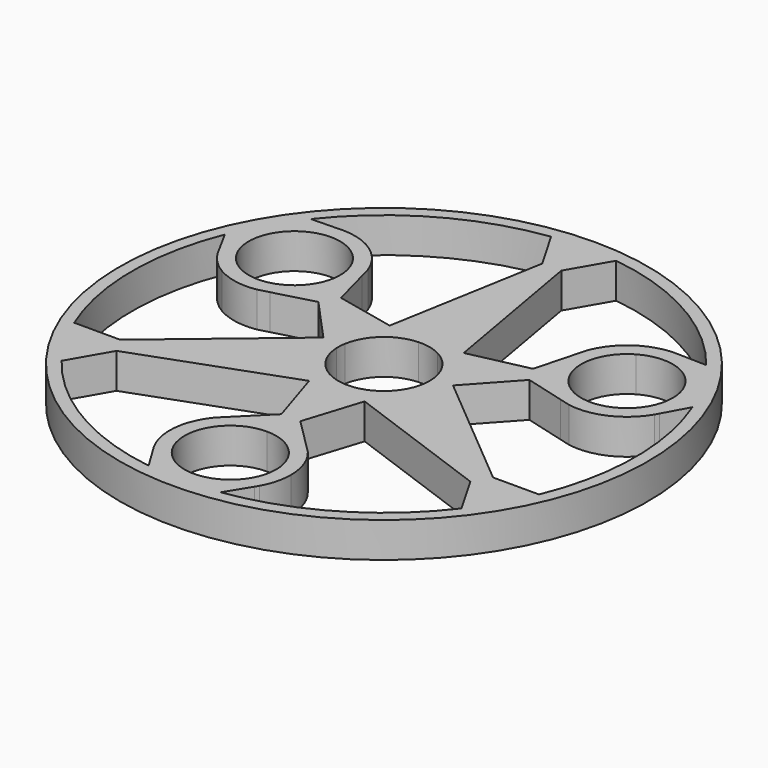
from build123d import *

# Parameters (mm, degrees)
F1_DEPTH = 5
F2_COUNT = 3
F3_DEPTH = 5


with BuildPart() as f1:
    # F0 (on Top) → F1 (new body)
    with BuildSketch(Plane.XY):
        with BuildLine():
            ThreePointArc((-5.4248477433, 6.6765403938), (0, 8.602625452), (5.4248477433, 6.6765403938))
            Line((5.4248477433, 6.6765403938), (1.3544146049, 29.8043473585))
            Line((1.3544146049, 29.8043473585), (-1.3544146049, 29.8043473585))
            Line((-1.3544146049, 29.8043473585), (-5.4248477433, 6.6765403938))
        make_face()
        with BuildLine():
            ThreePointArc((-6.4909440333, -0.3429949805), (-6.4880250922, 0.3943734303), (-6.4016109203, 1.1266665987))
            Line((-6.4016109203, 1.1266665987), (-6.5999012756, 0))
            Line((-6.5999012756, 0), (-6.4909440333, -0.3429949805))
        make_face()
        with BuildLine():
            ThreePointArc((-6.4016109203, 1.1266665987), (3.01e-08, 6.5), (6.4016109308, 1.1266665393))
            Line((6.4016109308, 1.1266665393), (5.4248477433, 6.6765403938))
            ThreePointArc((5.4248477433, 6.6765403938), (0, 8.602625452), (-5.4248477433, 6.6765403938))
            Line((-5.4248477433, 6.6765403938), (-6.4016109203, 1.1266665987))
        make_face()
        with BuildLine():
            ThreePointArc((5.4826146341, -20.6491084281), (3.2218551697, -19.3014479363), (0.6594098664, -18.7005351105))
            Line((0.6594098664, -18.7005351105), (0, -20.7763427347))
            Line((0, -20.7763427347), (-0.6594098664, -18.7005351105))
            ThreePointArc((-0.6594098664, -18.7005351105), (-3.2230425543, -19.3019277422), (-5.4845879123, -20.6507413875))
            Line((-5.4845879123, -20.6507413875), (-6.6083723171, -21.7710077677))
            ThreePointArc((-6.6083723171, -21.7710077677), (-8.5655271696, -26.4946509242), (-7.4957432876, -31.494533146))
            Line((-7.4957432876, -31.494533146), (-7.1801960351, -32.0117500748))
            ThreePointArc((-7.1801960351, -32.0117500748), (-4.7747668767, -34.4304254189), (-1.6183226323, -35.7238470784))
            ThreePointArc((-1.6183226323, -35.7238470784), (0, -35.7604840323), (1.6183226323, -35.7238470784))
            ThreePointArc((1.6183226323, -35.7238470784), (4.7779827917, -34.4282780127), (7.1844511071, -32.0052918853))
            Line((7.1844511071, -32.0052918853), (7.4957432876, -31.494533146))
            ThreePointArc((7.4957432876, -31.494533146), (8.3201892844, -29.4566518987), (8.6011218908, -27.2763427347))
            ThreePointArc((8.6011218908, -27.2763427347), (8.0881303689, -24.3503480465), (6.6103478907, -21.7733800287))
            Line((6.6103478907, -21.7733800287), (5.4826146341, -20.6491084281))
        make_face()
        with BuildLine():
            ThreePointArc((6.5, -27.2763427347), (-4.5961940777, -31.8725368124), (0, -20.7763427347))
            ThreePointArc((0, -20.7763427347), (4.5961940777, -22.680148657), (6.5, -27.2763427347))
        make_face(mode=Mode.SUBTRACT)
        with BuildLine():
            ThreePointArc((1.6183226323, -35.7238470784), (0, -35.7604840323), (-1.6183226323, -35.7238470784))
            ThreePointArc((-1.6183226323, -35.7238470784), (0, -35.8774646255), (1.6183226323, -35.7238470784))
        make_face()
        with BuildLine():
            Line((1.3493711691, -16.5285522429), (4.2182307974, -7.4974458056))
            ThreePointArc((4.2182307974, -7.4974458056), (0, -8.602625452), (-4.2182307974, -7.4974458056))
            Line((-4.2182307974, -7.4974458056), (-1.3493910102, -16.5284897836))
            Line((-1.3493910102, -16.5284897836), (0, -15.183323063))
            Line((0, -15.183323063), (1.3493711691, -16.5285522429))
        make_face()
        with BuildLine():
            Line((5.4248477433, 6.6765403938), (6.4016109308, 1.1266665393))
            Line((6.4016109308, 1.1266665393), (6.5999012756, 0))
            Line((6.5999012756, 0), (6.4909440333, -0.3429949805))
            ThreePointArc((6.4909440333, -0.3429949805), (6.1949432904, -1.9679119972), (5.498951298, -3.4657660946))
            Line((5.498951298, -3.4657660946), (4.2182307974, -7.4974458056))
            ThreePointArc((4.2182307974, -7.4974458056), (7.4260697643, -4.3426550086), (8.602625452, 0))
            ThreePointArc((8.602625452, 0), (7.7676604566, 3.6971091002), (5.4248477433, 6.6765403938))
        make_face()
        with BuildLine():
            Line((-6.5999012756, 0), (-6.4016109203, 1.1266665987))
            Line((-6.4016109203, 1.1266665987), (-5.4248477433, 6.6765403938))
            ThreePointArc((-5.4248477433, 6.6765403938), (-8.5716224911, -0.7296934543), (-4.2182307974, -7.4974458056))
            Line((-4.2182307974, -7.4974458056), (-5.498951298, -3.4657660946))
            ThreePointArc((-5.498951298, -3.4657660946), (-6.1949432904, -1.9679119972), (-6.4909440333, -0.3429949805))
            Line((-6.4909440333, -0.3429949805), (-6.5999012756, 0))
        make_face()
        with BuildLine():
            Line((0, -20.7763427347), (0.6594098664, -18.7005351105))
            ThreePointArc((0.6594098664, -18.7005351105), (0, -18.6752208439), (-0.6594098664, -18.7005351105))
            Line((-0.6594098664, -18.7005351105), (0, -20.7763427347))
        make_face()
        with BuildLine():
            Line((4.2182307974, -7.4974458056), (5.498951298, -3.4657660946))
            ThreePointArc((5.498951298, -3.4657660946), (0, -6.5), (-5.498951298, -3.4657660946))
            Line((-5.498951298, -3.4657660946), (-4.2182307974, -7.4974458056))
            ThreePointArc((-4.2182307974, -7.4974458056), (0, -8.602625452), (4.2182307974, -7.4974458056))
        make_face()
        with BuildLine():
            Line((0.6594098664, -18.7005351105), (1.3493711691, -16.5285522429))
            Line((1.3493711691, -16.5285522429), (0, -15.183323063))
            Line((0, -15.183323063), (-1.3493910102, -16.5284897836))
            Line((-1.3493910102, -16.5284897836), (-0.6594098664, -18.7005351105))
            ThreePointArc((-0.6594098664, -18.7005351105), (0, -18.6752208439), (0.6594098664, -18.7005351105))
        make_face()
        with BuildLine():
            Line((-0.6594098664, -18.7005351105), (-1.3493910102, -16.5284897836))
            Line((-1.3493910102, -16.5284897836), (-5.4845879123, -20.6507413875))
            ThreePointArc((-5.4845879123, -20.6507413875), (-3.2230425543, -19.3019277422), (-0.6594098664, -18.7005351105))
        make_face()
        with BuildLine():
            Line((5.4826146341, -20.6491084281), (1.3493711691, -16.5285522429))
            Line((1.3493711691, -16.5285522429), (0.6594098664, -18.7005351105))
            ThreePointArc((0.6594098664, -18.7005351105), (3.2218551697, -19.3014479363), (5.4826146341, -20.6491084281))
        make_face()
        with BuildLine():
            Line((-4.6210138798, 35.4606605825), (-1.3544146049, 29.8043473585))
            Line((-1.3544146049, 29.8043473585), (-0.3063812271, 35.7591715336))
            ThreePointArc((-0.3063812271, 35.7591715336), (-2.4682145028, 35.6752033686), (-4.6210138798, 35.4606605825))
        make_face()
        with BuildLine():
            Line((-1.3544146049, 29.8043473585), (1.3544146049, 29.8043473585))
            Line((1.3544146049, 29.8043473585), (0.3063812271, 35.7591715336))
            ThreePointArc((0.3063812271, 35.7591715336), (0, 35.7604840323), (-0.3063812271, 35.7591715336))
            Line((-0.3063812271, 35.7591715336), (-1.3544146049, 29.8043473585))
        make_face()
        with BuildLine():
            Line((0.3063812271, 35.7591715336), (1.3544146049, 29.8043473585))
            Line((1.3544146049, 29.8043473585), (4.6210138798, 35.4606605825))
            ThreePointArc((4.6210138798, 35.4606605825), (2.4682145028, 35.6752033686), (0.3063812271, 35.7591715336))
        make_face()
        with BuildLine():
            Line((-7.1801960351, -32.0117500748), (-5.1177123017, -35.3923895636))
            ThreePointArc((-5.1177123017, -35.3923895636), (-3.3720924779, -35.6011405793), (-1.6183226323, -35.7238470784))
            ThreePointArc((-1.6183226323, -35.7238470784), (-4.7747668767, -34.4304254189), (-7.1801960351, -32.0117500748))
        make_face()
        with BuildLine():
            ThreePointArc((1.6183226323, -35.7238470784), (3.3734184825, -35.601014957), (5.1203487512, -35.3920082348))
            Line((5.1203487512, -35.3920082348), (7.1844511071, -32.0052918853))
            ThreePointArc((7.1844511071, -32.0052918853), (4.7779827917, -34.4282780127), (1.6183226323, -35.7238470784))
        make_face()
    extrude(amount=F1_DEPTH)

    # F2: F1 ×3 about axis
    f2_axis = Axis((0, 0, 0), (0, 0, -1))


with BuildPart() as f1_1:
    add(f1.part)
    for i in range(1, F2_COUNT):
        add(f1.part.rotate(f2_axis, i * 360 / F2_COUNT))

    # F0 (on Top) → F3 (join)
    with BuildSketch(Plane.XY):
        with BuildLine():
            ThreePointArc((37.5, 0), (26.5165042945, 26.5165042945), (0, 37.5))
            ThreePointArc((0, 37.5), (-26.5165042945, -26.5165042945), (37.5, 0))
        make_face()
        with BuildLine():
            Line((0, 37.5), (0.3063812271, 35.7591715336))
            ThreePointArc((0.3063812271, 35.7591715336), (2.4682145028, 35.6752033686), (4.6210138798, 35.4606605825))
            ThreePointArc((4.6210138798, 35.4606605825), (26.8706337038, 23.5962128864), (35.7604840323, 0))
            ThreePointArc((35.7604840323, 0), (27.0362568413, -23.4062605778), (5.1203487512, -35.3920082348))
            ThreePointArc((5.1203487512, -35.3920082348), (3.3734184825, -35.601014957), (1.6183226323, -35.7238470784))
            ThreePointArc((1.6183226323, -35.7238470784), (0, -35.8774646255), (-1.6183226323, -35.7238470784))
            ThreePointArc((-1.6183226323, -35.7238470784), (-3.3720924779, -35.6011405793), (-5.1177123017, -35.3923895636))
            ThreePointArc((-5.1177123017, -35.3923895636), (-35.7596053622, 0.2506841909), (-4.6210138798, 35.4606605825))
            ThreePointArc((-4.6210138798, 35.4606605825), (-2.4682145028, 35.6752033686), (-0.3063812271, 35.7591715336))
            Line((-0.3063812271, 35.7591715336), (0, 37.5))
        make_face(mode=Mode.SUBTRACT)
        with BuildLine():
            ThreePointArc((-0.3063812271, 35.7591715336), (0, 35.7604840323), (0.3063812271, 35.7591715336))
            Line((0.3063812271, 35.7591715336), (0, 37.5))
            Line((0, 37.5), (-0.3063812271, 35.7591715336))
        make_face()
    extrude(amount=F3_DEPTH)


solid = f1_1.part
